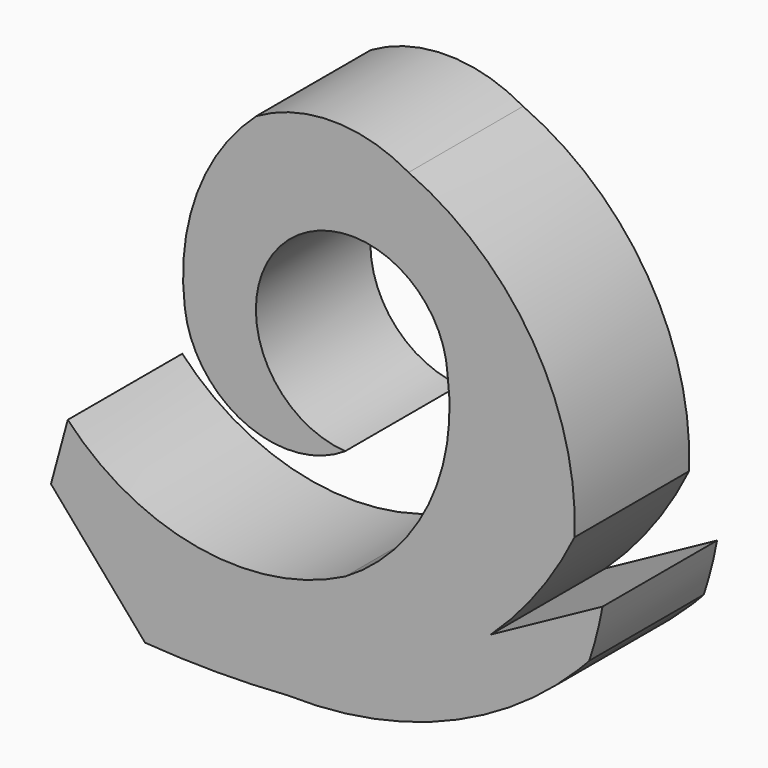
from build123d import *

# Parameters (mm, degrees)
F1_DEPTH = 25.4


with BuildPart() as f1:
    # F0 (on Front) → F1 (new body)
    with BuildSketch(Plane.XZ):
        with BuildLine():
            ThreePointArc((-15.780936, 29.163412), (-26.317708, 13.670527), (-28.452484, -4.943871))
            ThreePointArc((-28.452484, -4.943871), (-17.875252, -19.417613), (0, -18.060265))
            ThreePointArc((0, -18.060265), (-10.823449, 10.985093), (18.161161, 0))
            ThreePointArc((18.161161, 0), (14.790901, -21.574373), (0, -37.638042))
            ThreePointArc((0, -37.638042), (-26.029712, -41.61028), (-49.232491, -29.162165))
            Line((-49.232491, -29.162165), (-34.052868, -51.277125))
            ThreePointArc((-34.052868, -51.277125), (-11.834615, -51.590229), (10.250061, -49.137501))
            ThreePointArc((10.250061, -49.137501), (18.422762, -44.270653), (25.835534, -38.309943))
            ThreePointArc((25.835534, -38.309943), (34.207106, -28.97533), (40.720453, -18.261109))
            ThreePointArc((40.720453, -18.261109), (33.290033, 9.986302), (11.259014, 29.163412))
            ThreePointArc((11.259014, 29.163412), (-2.260961, 32.796685), (-15.780936, 29.163412))
        make_face()
        with BuildLine():
            Line((-34.052868, -51.277125), (-49.232491, -29.162165))
            Line((-49.232491, -29.162165), (-52.21349, -40.166389))
            Line((-52.21349, -40.166389), (-35.515159, -59.528485))
            ThreePointArc((-35.515159, -59.528485), (-22.90206, -59.986129), (-10.28896, -59.528485))
            ThreePointArc((-10.28896, -59.528485), (17.574586, -54.512212), (41.209359, -38.925751))
            Line((41.209359, -38.925751), (25.835534, -38.309943))
            ThreePointArc((25.835534, -38.309943), (18.422762, -44.270653), (10.250061, -49.137501))
            ThreePointArc((10.250061, -49.137501), (-11.834615, -51.590229), (-34.052868, -51.277125))
        make_face()
        with BuildLine():
            Line((45.68318, -27.485582), (25.835534, -38.309943))
            Line((25.835534, -38.309943), (41.209359, -38.925751))
            ThreePointArc((41.209359, -38.925751), (42.283136, -37.828191), (43.332722, -36.707476))
            ThreePointArc((43.332722, -36.707476), (44.670127, -32.137864), (45.68318, -27.485582))
        make_face()
    extrude(amount=F1_DEPTH)


solid = f1.part
